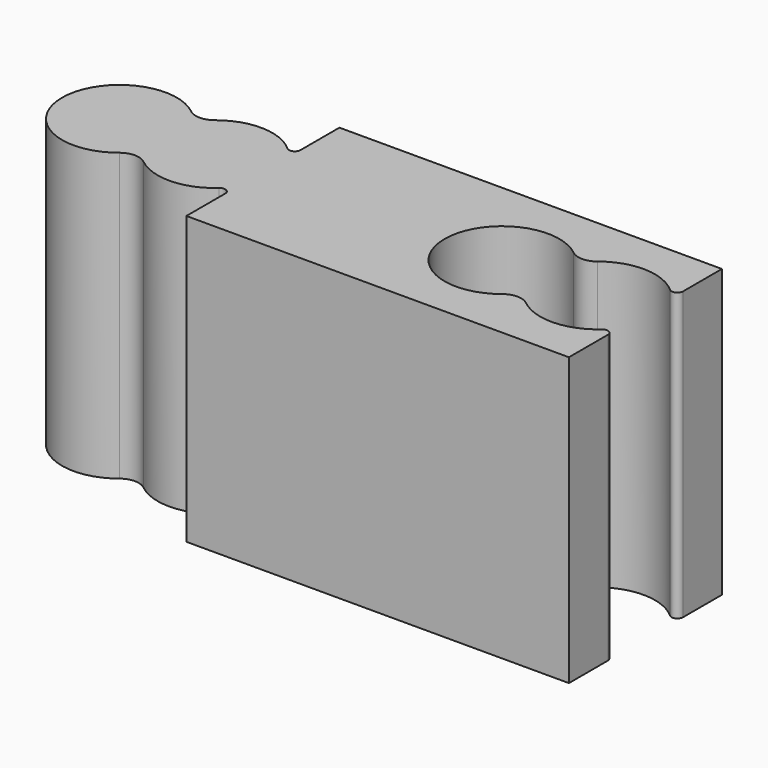
from build123d import *

# Parameters (mm, degrees)
F1_DEPTH = 15


with BuildPart() as f1:
    # F0 (on Top) → F1 (new body)
    with BuildSketch(Plane.XY):
        with BuildLine():
            Line((-10, -5), (10, -5))
            Line((10, -5), (10, -2.459675))
            ThreePointArc((10, -2.459675), (9.822474, -2.185813), (9.5, -2.236068))
            ThreePointArc((9.5, -2.236068), (7.581884, -2.998882), (5.625, -2.341874))
            ThreePointArc((5.625, -2.341874), (5, -2.122499), (4.375, -2.341874))
            ThreePointArc((4.375, -2.341874), (-0.5, 0), (4.375, 2.341874))
            ThreePointArc((4.375, 2.341874), (5, 2.122499), (5.625, 2.341874))
            ThreePointArc((5.625, 2.341874), (7.581884, 2.998882), (9.5, 2.236068))
            ThreePointArc((9.5, 2.236068), (9.822474, 2.185813), (10, 2.459675))
            Line((10, 2.459675), (10, 5))
            Line((10, 5), (-10, 5))
            Line((-10, 5), (-10, 2.459675))
            ThreePointArc((-10, 2.459675), (-10.177526, 2.185813), (-10.5, 2.236068))
            ThreePointArc((-10.5, 2.236068), (-12.418116, 2.998882), (-14.375, 2.341874))
            ThreePointArc((-14.375, 2.341874), (-15, 2.122499), (-15.625, 2.341874))
            ThreePointArc((-15.625, 2.341874), (-20.5, 0), (-15.625, -2.341874))
            ThreePointArc((-15.625, -2.341874), (-15, -2.122499), (-14.375, -2.341874))
            ThreePointArc((-14.375, -2.341874), (-12.418116, -2.998882), (-10.5, -2.236068))
            ThreePointArc((-10.5, -2.236068), (-10.177526, -2.185813), (-10, -2.459675))
            Line((-10, -2.459675), (-10, -5))
        make_face()
    extrude(amount=F1_DEPTH)


solid = f1.part
